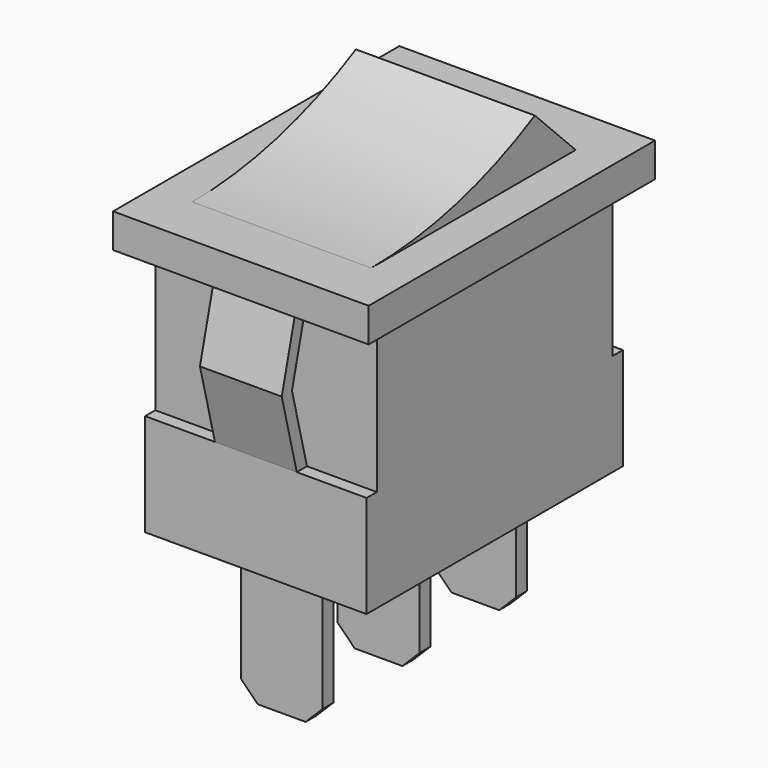
from build123d import *

# Parameters (mm, degrees)
F1_DEPTH = 6.5
F2_DEPTH = 7.5
F3_DEPTH = 5.25
F0_W     = 0.8
F0_H     = 8
F4_DEPTH = 2.4
F5_SIZE  = 1


with BuildPart() as f1:
    # F0 (on Right) → F1 (new body, symmetric)
    with BuildSketch(Plane.YZ):
        Polygon((8.65, 0), (-8.65, 0), (-8.65, -8.7), (-9.4, -8.7), (-9.4, -14.7), (-7.5, -14.7), (-6.7, -14.7), (-0.4, -14.7), (0.4, -14.7), (6.7, -14.7), (7.5, -14.7), (9.4, -14.7), (9.4, -8.7), (8.65, -8.7), align=None)
    extrude(amount=F1_DEPTH, both=True)

    # F0 (on Right) → F2 (join, symmetric)
    with BuildSketch(Plane.YZ):
        Polygon((-10.5, 2), (-10.5, 0), (-9.4, 0), (-8.65, 0), (8.65, 0), (9.4, 0), (10.5, 0), (10.5, 2), (7.5, 2), (-7.5, 2), align=None)
    extrude(amount=F2_DEPTH, both=True)

    # F0 (on Right) → F3 (join, symmetric)
    with BuildSketch(Plane.YZ):
        with BuildLine():
            ThreePointArc((4.5, 5), (-1.315342, 2.761366), (-7.5, 2))
            Line((-7.5, 2), (7.5, 2))
            Line((7.5, 2), (4.5, 5))
        make_face()
    extrude(amount=F3_DEPTH, both=True)

    # F0 (on Right) → F4 (join, symmetric)
    with BuildSketch(Plane.YZ):
        Polygon((-8.65, 0), (-9.4, 0), (-10.5, -4.35), (-9.4, -8.7), (-8.65, -8.7), (-9.75, -4.35), align=None)
        Polygon((9.4, 0), (8.65, 0), (9.75, -4.35), (8.65, -8.7), (9.4, -8.7), (10.5, -4.35), align=None)
        with Locations((7.1, -18.7)):
            Rectangle(F0_W, F0_H)
        with Locations((0, -18.7)):
            Rectangle(F0_W, F0_H)
        with Locations((-7.1, -18.7)):
            Rectangle(F0_W, F0_H)
    extrude(amount=F4_DEPTH, both=True)

    # F5
    f5_edges = [f1.edges().sort_by_distance(p)[0] for p in [
        (2.4, -7.1, -22.7),
        (2.4, 0, -22.7),
        (-2.4, 7.1, -22.7),
        (2.4, 7.1, -22.7),
        (-2.4, 0, -22.7),
        (-2.4, -7.1, -22.7),
    ]]
    chamfer(f5_edges, length=F5_SIZE)


solid = f1.part
